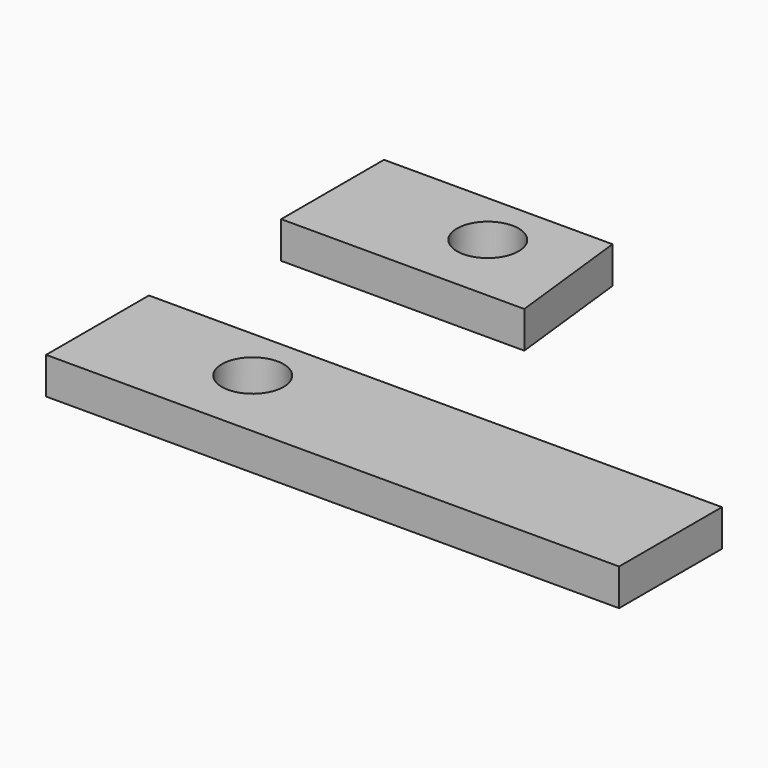
from build123d import *

# Parameters (mm, degrees)
F0_W     = 19
F0_H     = 10
F0_R     = 2.1
F0_W_2   = 20
F1_DEPTH = 2.5
F2_W     = 39
F2_H     = 1.25
F3_DEPTH = 2.501
F6_DEPTH = 2.501


with BuildPart() as f1:
    # F0 (on Top) → F1 (new body)
    with BuildSketch(Plane.XY):
        with Locations((4.863633034, 5)):
            Rectangle(F0_W, F0_H)
        with Locations((5.428398028, 5)):
            Circle(F0_R, mode=Mode.SUBTRACT)
        with Locations((24.363633034, 5)):
            Rectangle(F0_W_2, F0_H)
        with Locations((4.863633034, 5)):
            Rectangle(F0_W, F0_H)
        with Locations((5.428398028, 5)):
            Circle(F0_R, mode=Mode.SUBTRACT)
    extrude(amount=F1_DEPTH)

    # F2 (on face) → F3 (cut, through all)
    with BuildSketch(Plane.XY.offset(2.5)):
        with Locations((14.863633034, 9.375)):
            Rectangle(F2_W, F2_H)
    extrude(amount=-F3_DEPTH, mode=Mode.SUBTRACT)


with BuildPart() as f4_1:
    # F4: copy of F1
    add(f1.part.moved(Location((0, 20, 0))))

    # F5 (on face) → F6 (cut, through all)
    with BuildSketch(Plane.XY.offset(2.5)):
        Polygon((10.9172677621, 28.75), (11.914011091, 20), (34.363633034, 20), (34.363633034, 28.75), align=None)
    extrude(amount=-F6_DEPTH, mode=Mode.SUBTRACT)


solid = Compound([f1.part, f4_1.part])
